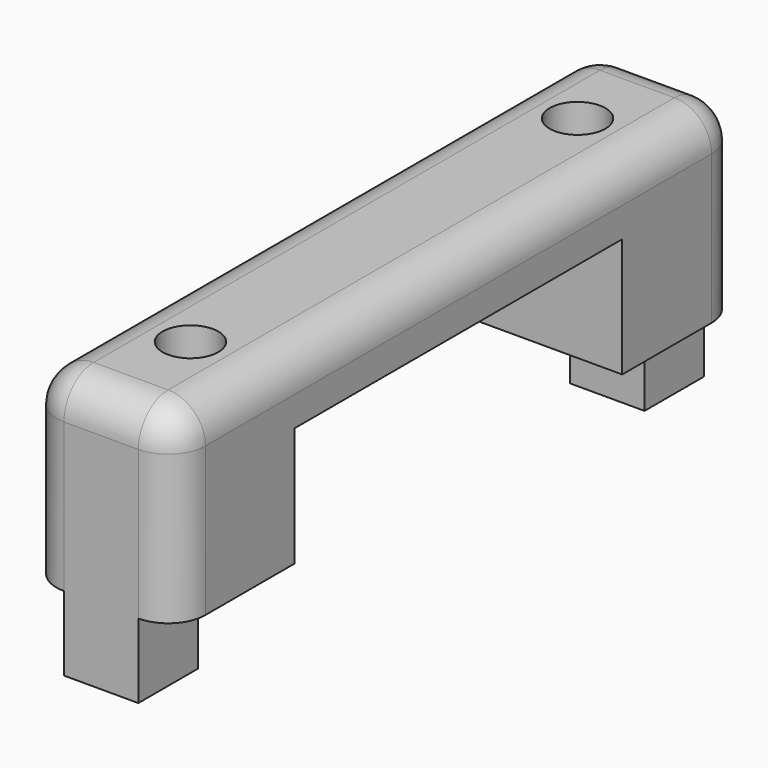
from build123d import *

# Parameters (mm, degrees)
BOX069_W          = 2
BOX069_H          = 2
BOX069_DEPTH      = 2
BOX070_W          = 2
BOX070_H          = 2
BOX070_DEPTH      = 2
CYLINDER040_R     = 0.75
CYLINDER040_DEPTH = 10
CYLINDER037_R     = 0.75
CYLINDER037_DEPTH = 10
BOX038_W          = 5
BOX038_H          = 11
BOX038_DEPTH      = 3.2
BOX003_W          = 4
BOX003_H          = 19
BOX003_DEPTH      = 5
FILLET_R          = 1
FILLET001_R       = 1
FILLET002_R       = 1
FILLET003_R       = 1


with BuildPart() as cubo069:
    # Box069 → Box069 (new body)
    with BuildSketch(Plane(origin=(-27, 67, 43), x_dir=(1, 0, 0), z_dir=(0, 0, 1))):
        with Locations((1, 1)):
            Rectangle(BOX069_W, BOX069_H)
    extrude(amount=BOX069_DEPTH)


with BuildPart() as cubo070:
    # Box070 → Box070 (new body)
    with BuildSketch(Plane(origin=(-27, 50, 43), x_dir=(1, 0, 0), z_dir=(0, 0, 1))):
        with Locations((1, 1)):
            Rectangle(BOX070_W, BOX070_H)
    extrude(amount=BOX070_DEPTH)


with BuildPart() as cilindro040:
    # Cylinder040 → Cylinder040 (new body)
    with BuildSketch(Plane(origin=(-26, 66, 42), x_dir=(1, 0, 0), z_dir=(0, 0, 1))):
        Circle(CYLINDER040_R)
    extrude(amount=CYLINDER040_DEPTH)


with BuildPart() as cilindro037:
    # Cylinder037 → Cylinder037 (new body)
    with BuildSketch(Plane(origin=(-26, 53, 42), x_dir=(1, 0, 0), z_dir=(0, 0, 1))):
        Circle(CYLINDER037_R)
    extrude(amount=CYLINDER037_DEPTH)


with BuildPart() as cubo038:
    # Box038 → Box038 (new body)
    with BuildSketch(Plane(origin=(-28.5, 54, 51), x_dir=(1, 0, 0), z_dir=(0, 0, 1))):
        with Locations((2.5, 5.5)):
            Rectangle(BOX038_W, BOX038_H)
    extrude(amount=BOX038_DEPTH)


with BuildPart() as fusion002044002:
    # Box003 → Box003 (new body)
    with BuildSketch(Plane(origin=(-2, 50, 45), x_dir=(1, 0, 0), z_dir=(0, 0, 1))):
        with Locations((2, 9.5)):
            Rectangle(BOX003_W, BOX003_H)
    extrude(amount=BOX003_DEPTH)

    # Fillet
    fillet_edges = [fusion002044002.edges().sort_by_distance(p)[0] for p in [
        (2, 59.5, 50),
    ]]
    fillet(fillet_edges, radius=FILLET_R)

    # Fillet001
    fillet001_edges = [fusion002044002.edges().sort_by_distance(p)[0] for p in [
        (-2, 59.5, 50),
    ]]
    fillet(fillet001_edges, radius=FILLET001_R)

    # Fillet002
    fillet002_edges = [fusion002044002.edges().sort_by_distance(p)[0] for p in [
        (0, 69, 50),
    ]]
    fillet(fillet002_edges, radius=FILLET002_R)

    # Fillet003
    fillet003_edges = [fusion002044002.edges().sort_by_distance(p)[0] for p in [
        (0, 50, 50),
    ]]
    fillet(fillet003_edges, radius=FILLET003_R)


with BuildPart() as fusion002044002_1:
    # Fillet003 placement: moved
    add(fusion002044002.part.moved(Location((-26, 0, 6))))

    # Cut055: cut Cubo038
    add(cubo038.part, mode=Mode.SUBTRACT)


with BuildPart() as fusion002044002_2:
    # Cut055 placement: moved
    add(fusion002044002_1.part.moved(Location((0, 0, -6))))

    # Cut057: cut Cilindro037
    add(cilindro037.part, mode=Mode.SUBTRACT)

    # Cut058: cut Cilindro040
    add(cilindro040.part, mode=Mode.SUBTRACT)

    # Fusion002044002: union Cubo069, Cubo070
    add(cubo069.part)
    add(cubo070.part)


solid = fusion002044002_2.part
